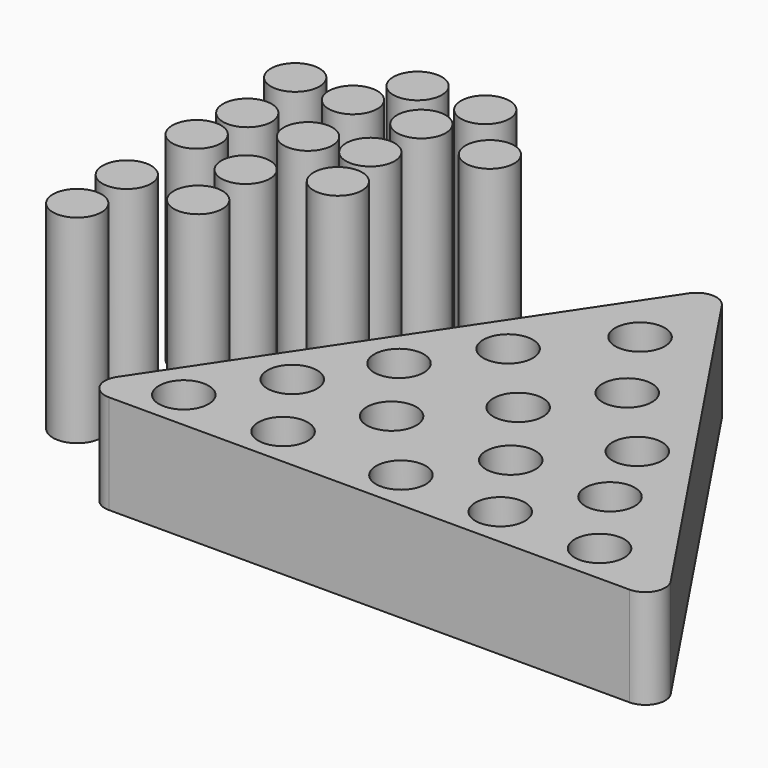
from build123d import *

# Parameters (mm, degrees)
F1_DEPTH = 25.4
F3_R     = 6.35
F2_R     = 6.35
F4_DEPTH = 12.7
F5_R     = 6.223
F6_DEPTH = 50.8
F7_R     = 5.08


with BuildPart() as f1:
    # F0 (on Top) → F1 (new body)
    with BuildSketch(Plane.XY):
        Polygon((0, 57.954736), (-76.095432, -55.854235), (76.095432, -55.854235), align=None)
    extrude(amount=F1_DEPTH)

    # F3 (on face) + F2 (on face) → F4 (cut)
    with BuildSketch(Plane.XY.offset(25.4)):
        with Locations((-42.790008, -26.953058)):
            Circle(F3_R)
        with Locations((-17.390008, -26.953058)):
            Circle(F3_R)
        with Locations((13.089992, -26.953058)):
            Circle(F3_R)
        with Locations((38.489992, -26.953058)):
            Circle(F3_R)
        with Locations((0, -8.211881)):
            Circle(F3_R)
        with Locations((-30.48, -8.211881)):
            Circle(F3_R)
        with Locations((30.48, -8.211881)):
            Circle(F3_R)
        with Locations((13.089992, 10.301563)):
            Circle(F3_R)
        with Locations((-17.390008, 10.301563)):
            Circle(F3_R)
        with Locations((0, 30.76545)):
            Circle(F3_R)
    with BuildSketch(Plane.XY.offset(25.4)):
        with Locations((-55.552636, -45.694235)):
            Circle(F2_R)
        with Locations((-30.152636, -45.694235)):
            Circle(F2_R)
        with Locations((0, -45.694235)):
            Circle(F2_R)
        with Locations((50.8, -45.694235)):
            Circle(F2_R)
        with Locations((25.4, -45.694235)):
            Circle(F2_R)
    extrude(amount=-F4_DEPTH, mode=Mode.SUBTRACT)

    # F7
    f7_edges = [f1.edges().sort_by_distance(p)[0] for p in [
        (76.095432, -55.854235, 12.7),
        (-76.095432, -55.854235, 12.7),
        (0, 57.954736, 12.7),
    ]]
    fillet(f7_edges, radius=F7_R)


with BuildPart() as f6:
    # F5 (on Top) → F6 (new body)
    with BuildSketch(Plane.XY):
        with Locations((-72.085381, 49.74369)):
            Circle(F5_R)
        with Locations((-55.090416, 50.125599)):
            Circle(F5_R)
        with Locations((-42.296458, 35.613045)):
            Circle(F5_R)
        with Locations((-61.200965, 37.331637)):
            Circle(F5_R)
        with Locations((-78.386888, 36.949724)):
            Circle(F5_R)
        with Locations((-93.472302, 37.331637)):
            Circle(F5_R)
        with Locations((-91.371804, 19.381898)):
            Circle(F5_R)
        with Locations((-75.522564, 18.999988)):
            Circle(F5_R)
        with Locations((-61.582875, 21.482399)):
            Circle(F5_R)
        with Locations((-58.718555, 7.542709)):
            Circle(F5_R)
        with Locations((-76.286383, 0)):
            Circle(F5_R)
        with Locations((-93.472302, 5.824117)):
            Circle(F5_R)
        with Locations((-93.472302, -16.517578)):
            Circle(F5_R)
        with Locations((-75.522564, -16.135668)):
            Circle(F5_R)
        with Locations((-93.472302, -32.366816)):
            Circle(F5_R)
    extrude(amount=F6_DEPTH)


solid = Compound([f1.part, f6.part])
